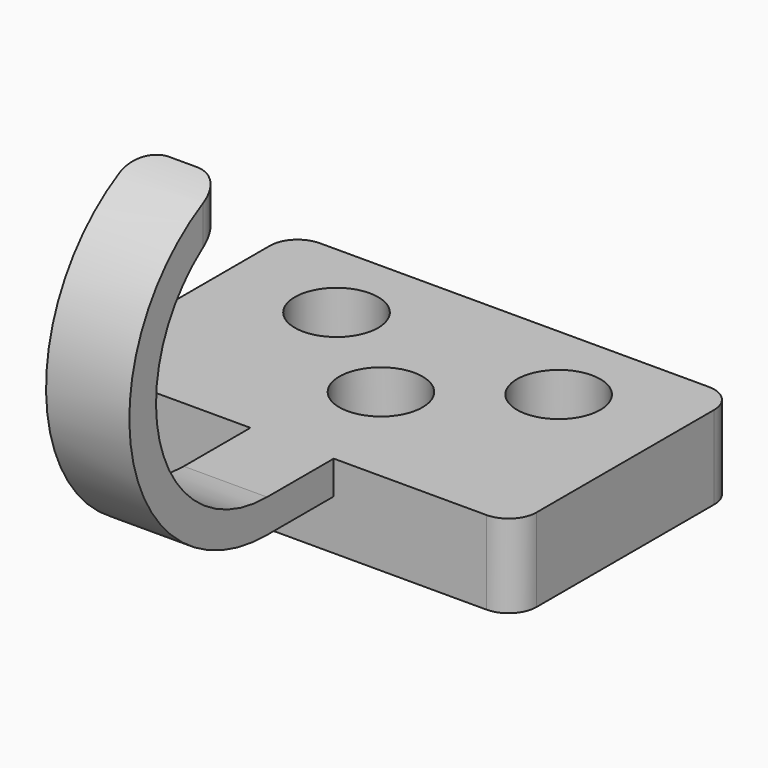
from build123d import *

# Parameters (mm, degrees)
F0_W      = 101.6
F0_H      = 63.5
F1_DEPTH  = 19.05
F2_R      = 6.35
F3_R      = 9.525
F4_DEPTH  = 12.7
F5_DEPTH  = 19.051
F6_W      = 19.05
F6_H      = 7.62
F7_DEPTH  = 19.05
F8_W      = 19.05
F8_H      = 7.62
F9_ANGLE  = 162.2017998475
F11_DEPTH = 25.4
F12_R     = 6.35


with BuildPart() as f1:
    # F0 (on Top) → F1 (new body)
    with BuildSketch(Plane.XY):
        with Locations((50.8, -31.75)):
            Rectangle(F0_W, F0_H)
    extrude(amount=F1_DEPTH)

    # F2
    f2_edges = [f1.edges().sort_by_distance(p)[0] for p in [
        (101.6, -63.5, 9.525),
        (101.6, 0, 9.525),
        (0, -63.5, 9.525),
        (0, 0, 9.525),
    ]]
    fillet(f2_edges, radius=F2_R)

    # F3 (on face) → F4 (cut)
    with BuildSketch(Plane.XY.offset(19.05)):
        with Locations((50.8, -38.1)):
            Circle(F3_R)
    extrude(amount=-F4_DEPTH, mode=Mode.SUBTRACT)

    # F3 (on face) → F5 (cut, through all)
    with BuildSketch(Plane.XY.offset(19.05)):
        with Locations((25.4, -19.05)):
            Circle(F3_R)
        with Locations((76.2, -19.05)):
            Circle(F3_R)
    extrude(amount=-F5_DEPTH, mode=Mode.SUBTRACT)

    # F6 (on face) → F7 (join)
    with BuildSketch(Plane.XZ.offset(63.5)):
        with Locations((50.8, 15.24)):
            Rectangle(F6_W, F6_H)
    extrude(amount=F7_DEPTH)

    # F8 (on face) → F9 (revolve)
    with BuildSketch(Plane.XZ.offset(82.55)):
        with Locations((50.8, 15.24)):
            Rectangle(F8_W, F8_H)
    revolve(axis=Axis((50.8, -82.55, 50.8), (-1, 0, 0)), revolution_arc=F9_ANGLE)

    # F10 (on face) → F11 (cut)
    with BuildSketch(Plane.YZ.offset(60.325)):
        with BuildLine():
            Line((-94.5840466137, 88.2857122395), (-94.5840466137, 80.1810180576))
            ThreePointArc((-94.5840466137, 80.1810180576), (-93.4277552997, 80.6284585529), (-92.2548763014, 81.0304130963))
            Line((-92.2548763014, 81.0304130963), (-94.5840466137, 88.2857122395))
        make_face()
        with BuildLine():
            Line((-86.6367444396, 76.66990906), (-86.6367444396, 88.2857122395))
            Line((-86.6367444396, 88.2857122395), (-94.5840466137, 88.2857122395))
            Line((-94.5840466137, 88.2857122395), (-92.2548763014, 81.0304130963))
            ThreePointArc((-92.2548763014, 81.0304130963), (-93.4277552997, 80.6284585529), (-94.5840466137, 80.1810180576))
            Line((-94.5840466137, 80.1810180576), (-94.5840466137, 76.66990906))
            Line((-94.5840466137, 76.66990906), (-86.6367444396, 76.66990906))
        make_face()
    extrude(amount=-F11_DEPTH, mode=Mode.SUBTRACT)

    # F12
    f12_edges = [f1.edges().sort_by_distance(p)[0] for p in [
        (60.325, -94.584047, 84.233365),
        (41.275, -94.584047, 84.233365),
    ]]
    fillet(f12_edges, radius=F12_R)


solid = f1.part
